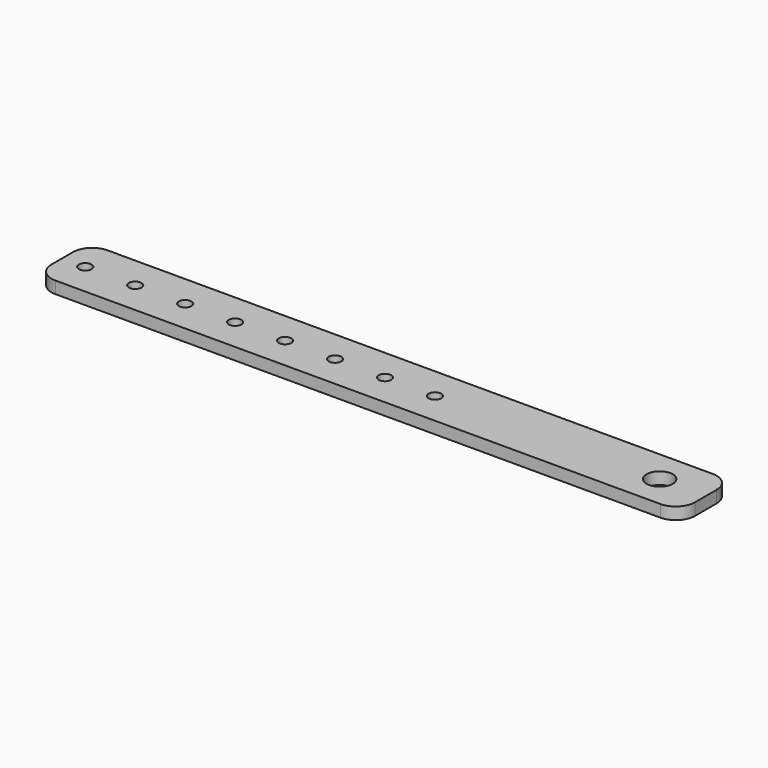
from build123d import *

# Parameters (mm, degrees)
SKETCH_W   = 167.5
SKETCH_H   = 17
SKETCH_R   = 1.65
SKETCH_R_2 = 3.4
PAD_DEPTH  = 3.125
FILLET_R   = 5


with BuildPart() as part:
    # Sketch → Pad (new body)
    with BuildSketch(Plane.XY):
        with Locations((77.75, 0)):
            Rectangle(SKETCH_W, SKETCH_H)
        Circle(SKETCH_R, mode=Mode.SUBTRACT)
        with Locations((13, 0)):
            Circle(SKETCH_R, mode=Mode.SUBTRACT)
        with Locations((26, 0)):
            Circle(SKETCH_R, mode=Mode.SUBTRACT)
        with Locations((39, 0)):
            Circle(SKETCH_R, mode=Mode.SUBTRACT)
        with Locations((52, 0)):
            Circle(SKETCH_R, mode=Mode.SUBTRACT)
        with Locations((65, 0)):
            Circle(SKETCH_R, mode=Mode.SUBTRACT)
        with Locations((91, 0)):
            Circle(SKETCH_R, mode=Mode.SUBTRACT)
        with Locations((78, 0)):
            Circle(SKETCH_R, mode=Mode.SUBTRACT)
        with Locations((149.5, 0)):
            Circle(SKETCH_R_2, mode=Mode.SUBTRACT)
    extrude(amount=PAD_DEPTH)

    # Fillet
    fillet_edges = [part.edges().sort_by_distance(p)[0] for p in [
        (-6, -8.5, 1.5625),
        (161.5, -8.5, 1.5625),
        (161.5, 8.5, 1.5625),
        (-6, 8.5, 1.5625),
    ]]
    fillet(fillet_edges, radius=FILLET_R)


solid = part.part
